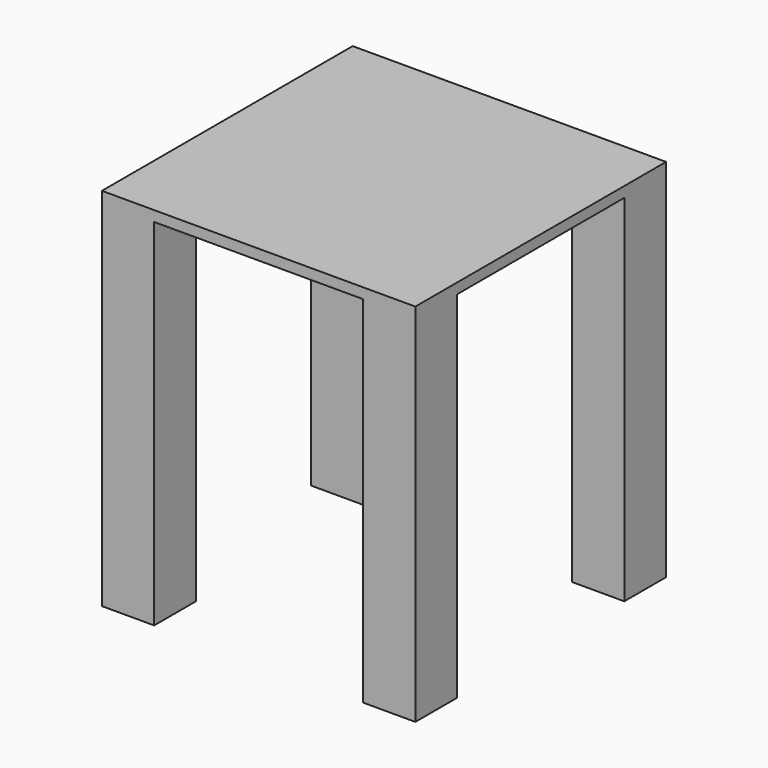
from build123d import *

# Parameters (mm, degrees)
F0_W     = 600
F0_H     = 600
F1_DEPTH = 700
F3_DEPTH = 680


with BuildPart() as f1:
    # F0 (on Top) → F1 (new body)
    with BuildSketch(Plane.XY):
        with Locations((300, 300)):
            Rectangle(F0_W, F0_H)
    extrude(amount=F1_DEPTH)

    # F2 (on face) → F3 (cut)
    with BuildSketch(Plane(origin=(0, 0, 0), x_dir=(1, 0, 0), z_dir=(0, 0, -1))):
        Polygon((500, 0), (100, 0), (100, -100), (0, -100), (0, -500), (100, -500), (100, -600), (500, -600), (500, -500), (600, -500), (600, -100), (500, -100), align=None)
    extrude(amount=-F3_DEPTH, mode=Mode.SUBTRACT)


solid = f1.part
